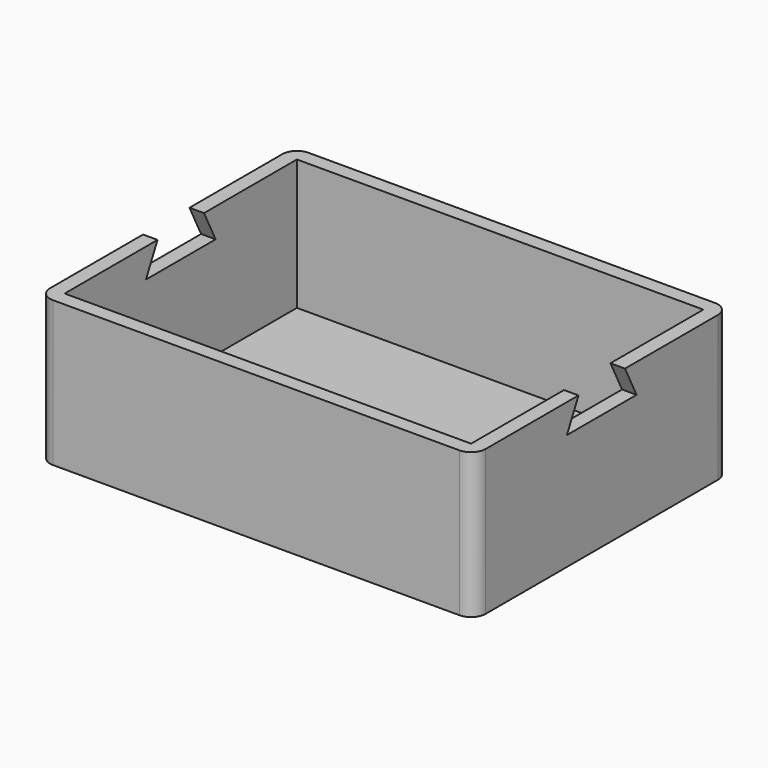
from build123d import *

# Parameters (mm, degrees)
F0_W     = 150
F0_H     = 110
F1_DEPTH = 50
F2_W     = 140
F2_H     = 100
F3_DEPTH = 45
F4_R     = 5
F6_DEPTH = 160


with BuildPart() as f1:
    # F0 (on Top) → F1 (new body)
    with BuildSketch(Plane.XY):
        Rectangle(F0_W, F0_H)
    extrude(amount=F1_DEPTH)

    # F2 (on face) → F3 (cut)
    with BuildSketch(Plane.XY.offset(50)):
        Rectangle(F2_W, F2_H)
    extrude(amount=-F3_DEPTH, mode=Mode.SUBTRACT)

    # F4
    f4_edges = [f1.edges().sort_by_distance(p)[0] for p in [
        (75, -55, 25),
        (75, 55, 25),
        (-75, 55, 25),
        (-75, -55, 25),
    ]]
    fillet(f4_edges, radius=F4_R)

    # F5 (on face) → F6 (cut)
    with BuildSketch(Plane.YZ.offset(75)):
        Polygon((10, 50), (-10, 50), (-15, 40), (15, 40), align=None)
    extrude(amount=-F6_DEPTH, mode=Mode.SUBTRACT)


solid = f1.part
